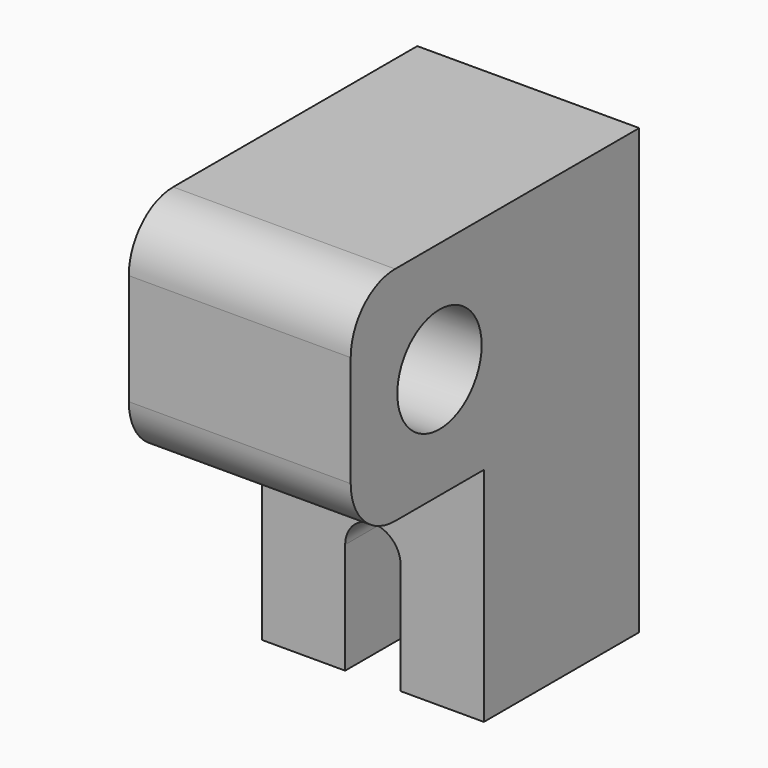
from build123d import *

# Parameters (mm, degrees)
F1_DEPTH = 35
F2_W     = 40
F2_H     = 40
F3_DEPTH = 20
F5_DEPTH = 40
F4_R     = 9.5
F6_DEPTH = 40


with BuildPart() as f1:
    # F0 (on Front) → F1 (new body)
    with BuildSketch(Plane.XZ):
        with BuildLine():
            Line((5, 20), (5, 0))
            Line((5, 0), (20, 0))
            Line((20, 0), (20, 80))
            Line((20, 80), (-20, 80))
            Line((-20, 80), (-20, 0))
            Line((-20, 0), (-5, 0))
            Line((-5, 0), (-5, 20))
            ThreePointArc((-5, 20), (0, 25), (5, 20))
        make_face()
    extrude(amount=F1_DEPTH)

    # F2 (on face) → F3 (join)
    with BuildSketch(Plane.XZ.offset(35)):
        with Locations((0, 60)):
            Rectangle(F2_W, F2_H)
    extrude(amount=F3_DEPTH)

    # F4 (on face) → F5 (join)
    with BuildSketch(Plane.YZ.offset(20)):
        with BuildLine():
            Line((-65, 70), (-65, 50))
            ThreePointArc((-65, 50), (-62.071068, 42.928932), (-55, 40))
            Line((-55, 40), (-55, 80))
            ThreePointArc((-55, 80), (-62.071068, 77.071068), (-65, 70))
        make_face()
    extrude(amount=-F5_DEPTH)

    # F4 (on face) → F6 (cut)
    with BuildSketch(Plane.YZ.offset(20)):
        with Locations((-45, 60)):
            Circle(F4_R)
    extrude(amount=-F6_DEPTH, mode=Mode.SUBTRACT)


solid = f1.part
